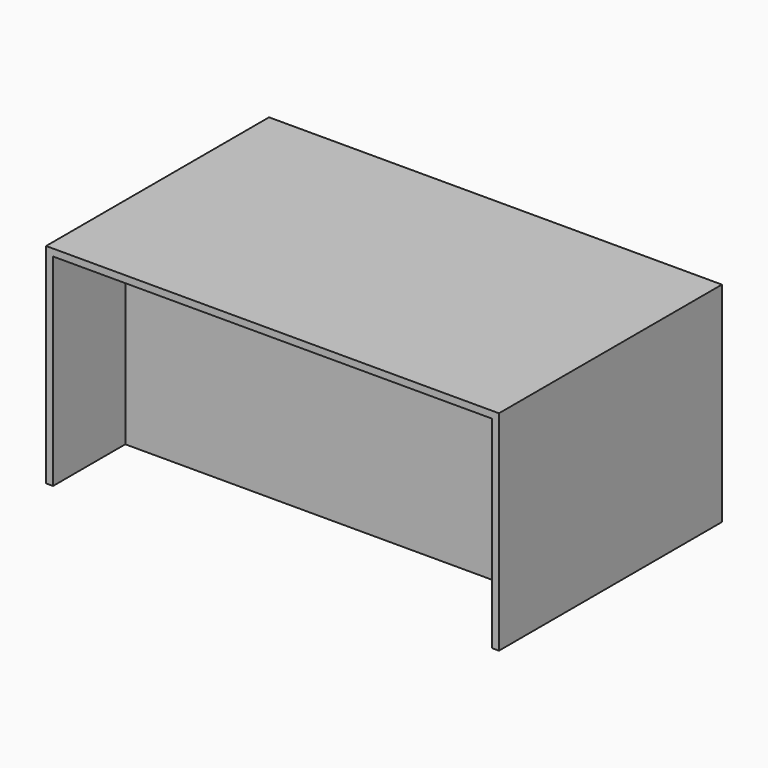
from build123d import *

# Parameters (mm, degrees)
F3_DEPTH = 1016
F4_W     = 1600.2
F4_H     = 19.05
F5_DEPTH = 736.6


with BuildPart() as f3:
    # F2 (on Front) → F3 (new body)
    with BuildSketch(Plane.XZ):
        Polygon((0, 762), (0, 0), (25.4, 0), (25.4, 736.6), align=None)
        Polygon((1651, 762), (0, 762), (25.4, 736.6), (1625.6, 736.6), align=None)
        Polygon((1651, 0), (1651, 762), (1625.6, 736.6), (1625.6, 0), align=None)
    extrude(amount=F3_DEPTH)

    # F4 (on face) → F5 (join, through all)
    with BuildSketch(Plane(origin=(0, 0, 736.6), x_dir=(1, 0, 0), z_dir=(0, 0, -1))):
        with Locations((825.5, 677.3333333333)):
            Rectangle(F4_W, F4_H)
    extrude(amount=F5_DEPTH)


solid = f3.part
